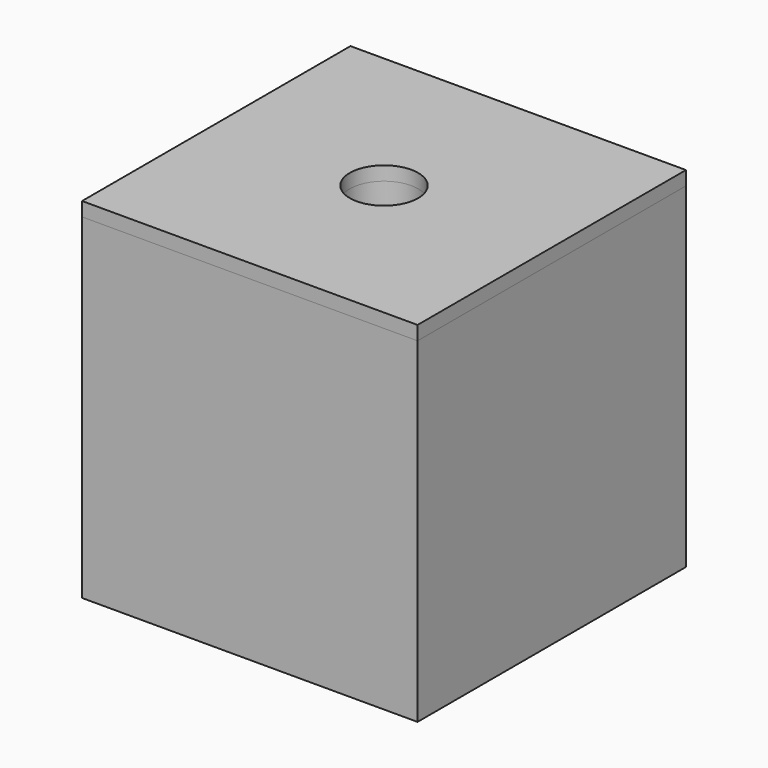
from build123d import *

# Parameters (mm, degrees)
F0_W     = 1200
F0_H     = 1200
F0_R     = 122.25
F1_DEPTH = 50
F2_W     = 1200
F2_H     = 1200
F3_DEPTH = 1200
F4_R     = 122.25
F5_DEPTH = 105
F6_R     = 181.5
F7_DEPTH = 1005


with BuildPart() as f1:
    # F0 (on Top) → F1 (new body)
    with BuildSketch(Plane.XY):
        Rectangle(F0_W, F0_H)
        Circle(F0_R, mode=Mode.SUBTRACT)
    extrude(amount=-F1_DEPTH)


with BuildPart() as f3:
    # F2 (on face) → F3 (new body)
    with BuildSketch(Plane(origin=(0, 0, -50), x_dir=(1, 0, 0), z_dir=(0, 0, -1))):
        Rectangle(F2_W, F2_H)
    extrude(amount=F3_DEPTH)

    # F4 (on face) → F5 (cut)
    with BuildSketch(Plane.XY.offset(-50)):
        Circle(F4_R)
    extrude(amount=-F5_DEPTH, mode=Mode.SUBTRACT)

    # F6 (on face) → F7 (cut)
    with BuildSketch(Plane.XY.offset(-155)):
        Circle(F6_R)
    extrude(amount=-F7_DEPTH, mode=Mode.SUBTRACT)


solid = Compound([f1.part, f3.part])
